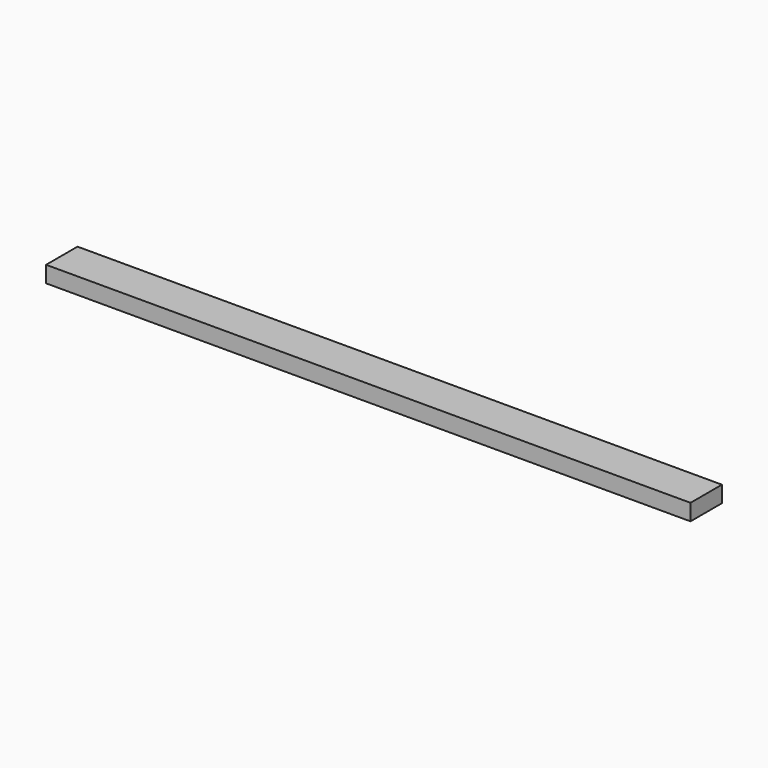
from build123d import *

# Parameters (mm, degrees)
SKETCH_W  = 410
SKETCH_H  = 25
PAD_DEPTH = 10.4


with BuildPart() as part:
    # Sketch → Pad (new body)
    with BuildSketch(Plane.XY):
        Rectangle(SKETCH_W, SKETCH_H)
    extrude(amount=PAD_DEPTH)


solid = part.part
